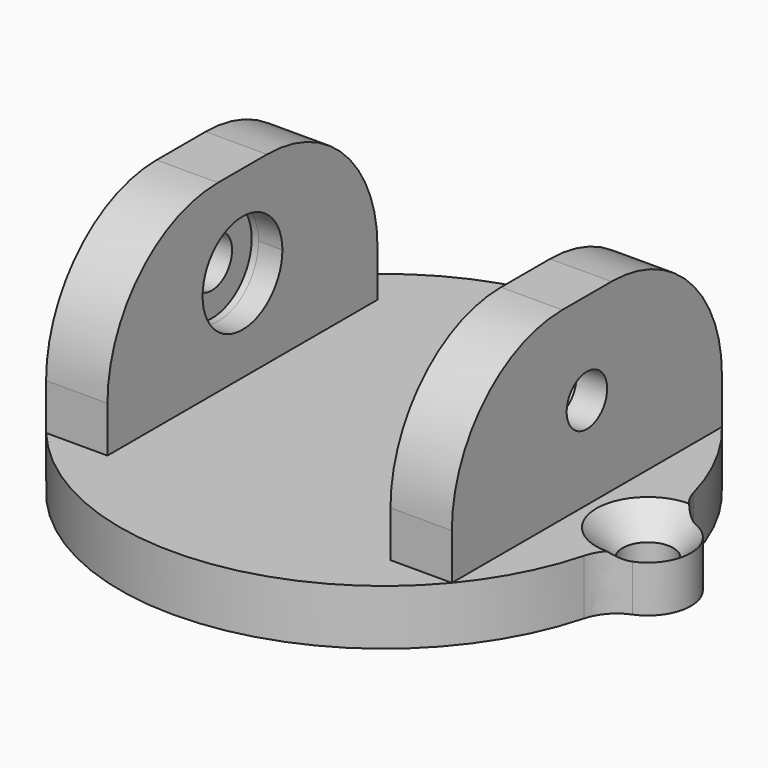
from build123d import *

# Parameters (mm, degrees)
F1_DEPTH             = 3.6
F2_R                 = 2.8
F4_D                 = 3.3
F4_DEPTH             = 20
F4_CSINK_D           = 6.72
F4_CSINK_ANGLE       = 90
F4_TIP               = 0.9914200214
F3_R                 = 2.5
F5_DEPTH             = 3.6
F3_W                 = 4
F3_H                 = 22
F6_DEPTH             = 12
F9_D                 = 3.3
F9_DEPTH             = 20
F9_CBORE_D           = 6.5
F9_CBORE_DEPTH       = 2
F9_TIP               = 0.9914200214
F9_ON_F7_D           = 3.3
F9_ON_F7_DEPTH       = 20
F9_ON_F7_CBORE_D     = 6.5
F9_ON_F7_CBORE_DEPTH = 2
F9_ON_F7_TIP         = 0.9914200214
F10_R                = 9


with BuildPart() as f1:
    # F0 (on Top) → F1 (new body)
    with BuildSketch(Plane.XY):
        with BuildLine():
            ThreePointArc((16.9720930233, -2.7907093023), (20, 0), (16.9720930233, 2.7907093023))
            ThreePointArc((16.9720930233, 2.7907093023), (0, 17.2), (-16.9720930233, 2.7907093023))
            ThreePointArc((-16.9720930233, 2.7907093023), (-20, 0), (-16.9720930233, -2.7907093023))
            ThreePointArc((-16.9720930233, -2.7907093023), (0, -17.2), (16.9720930233, -2.7907093023))
        make_face()
    extrude(amount=F1_DEPTH)

    # F2
    f2_edges = [f1.edges().sort_by_distance(p)[0] for p in [
        (-16.972093, -2.790709, 1.8),
        (16.972093, -2.790709, 1.8),
        (16.972093, 2.790709, 1.8),
        (-16.972093, 2.790709, 1.8),
    ]]
    fillet(f2_edges, radius=F2_R)

    # F4
    with Locations(Plane.XY.offset(3.6)):
        with Locations((-17.2, 0), (17.2, 0)):
            CounterSinkHole(F4_D / 2, F4_CSINK_D / 2, depth=F4_DEPTH, counter_sink_angle=F4_CSINK_ANGLE)
            with Locations((0, 0, -(F4_DEPTH + F4_TIP / 2))):  # 118° drill point
                Cone(0, F4_D / 2, F4_TIP, mode=Mode.SUBTRACT)

    # F3 (on face) → F5 (cut, through all)
    with BuildSketch(Plane.XY.offset(3.6)):
        with Locations((0, 10)):
            Circle(F3_R)
    extrude(amount=-F5_DEPTH, mode=Mode.SUBTRACT)

    # F3 (on face) → F6 (join)
    with BuildSketch(Plane.XY.offset(3.6)):
        with Locations((-11.2227077409, 0)):
            Rectangle(F3_W, F3_H)
        with Locations((11.2227077409, 0)):
            Rectangle(F3_W, F3_H)
    extrude(amount=F6_DEPTH)

    # F9
    with Locations(Plane(origin=(9.2227077409, 0, 0), x_dir=(0, -1, 0), z_dir=(-1, 0, 0))):
        with Locations((0, 9.6)):
            CounterBoreHole(F9_D / 2, F9_CBORE_D / 2, F9_CBORE_DEPTH, depth=F9_DEPTH)
            with Locations((0, 0, -(F9_DEPTH + F9_TIP / 2))):  # 118° drill point
                Cone(0, F9_D / 2, F9_TIP, mode=Mode.SUBTRACT)

    # F9 on F7
    with Locations(Plane.YZ.offset(-9.2227077409)):
        with Locations((0, 9.6)):
            CounterBoreHole(F9_ON_F7_D / 2, F9_ON_F7_CBORE_D / 2, F9_ON_F7_CBORE_DEPTH, depth=F9_ON_F7_DEPTH)
            with Locations((0, 0, -(F9_ON_F7_DEPTH + F9_ON_F7_TIP / 2))):  # 118° drill point
                Cone(0, F9_ON_F7_D / 2, F9_ON_F7_TIP, mode=Mode.SUBTRACT)

    # F10
    f10_edges = [f1.edges().sort_by_distance(p)[0] for p in [
        (11.222708, 11, 15.6),
        (-11.222708, 11, 15.6),
        (-11.222708, -11, 15.6),
        (11.222708, -11, 15.6),
    ]]
    fillet(f10_edges, radius=F10_R)


solid = f1.part
